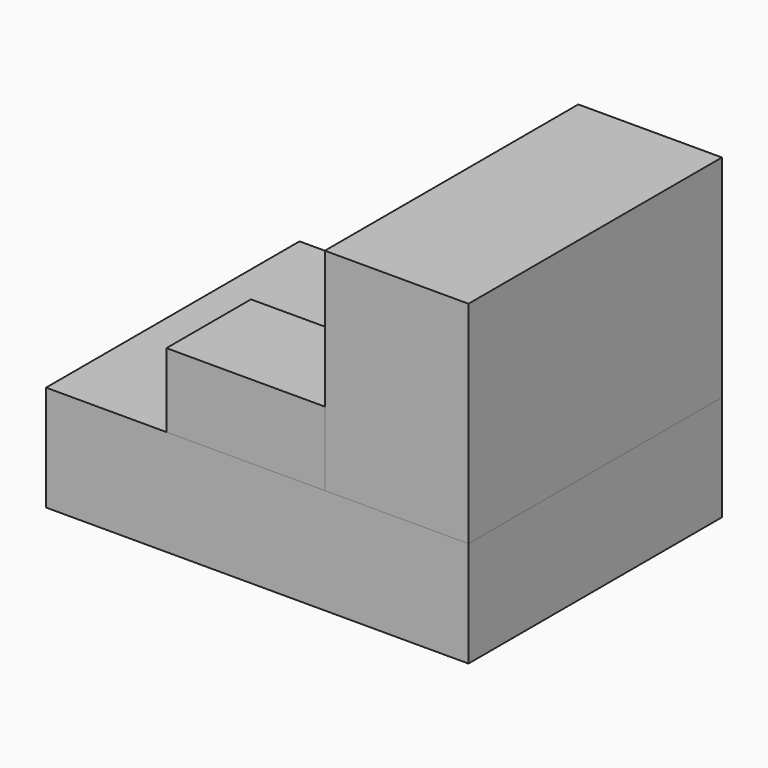
from build123d import *

# Parameters (mm, degrees)
F0_W     = 50.8
F0_H     = 12.7
F1_DEPTH = 38.1
F2_W     = 19.05
F2_H     = 8.89
F3_DEPTH = 12.7
F4_W     = 17.272346
F4_H     = 25.4
F5_DEPTH = 38.1
F6_W     = 19.05
F6_H     = 12.7
F7_DEPTH = 8.89


with BuildPart() as f1:
    # F0 (on Front) → F1 (new body)
    with BuildSketch(Plane.XZ):
        Rectangle(F0_W, F0_H)
    extrude(amount=F1_DEPTH)


with BuildPart() as f3:
    # F2 (on Front) → F3 (new body)
    with BuildSketch(Plane.XZ):
        with Locations((-1.397346, 10.795)):
            Rectangle(F2_W, F2_H)
    extrude(amount=F3_DEPTH)


with BuildPart() as f5:
    # F4 (on Front) → F5 (new body)
    with BuildSketch(Plane.XZ):
        with Locations((16.763827, 19.05)):
            Rectangle(F4_W, F4_H)
    extrude(amount=F5_DEPTH)


with BuildPart() as f7:
    # F6 (on face) → F7 (new body)
    with BuildSketch(Plane.XY.offset(6.35)):
        with Locations((-1.397346, -31.75)):
            Rectangle(F6_W, F6_H)
    extrude(amount=F7_DEPTH)


solid = Compound([f1.part, f3.part, f5.part, f7.part])
